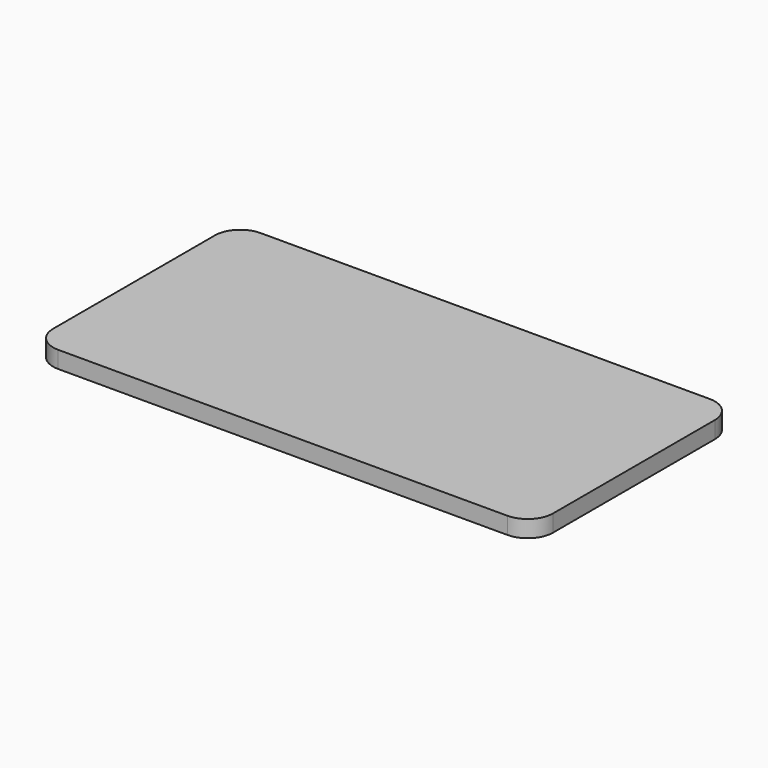
from build123d import *

# Parameters (mm, degrees)
F0_W     = 150.114
F0_H     = 75.946
F1_DEPTH = 5.08
F2_R     = 7.62
F3_DEPTH = 2.54
F4_DEPTH = 2.54
F5_DEPTH = 5.08


with BuildPart() as f1:
    # F0 (on Top) → F1 (new body)
    with BuildSketch(Plane.XY):
        with Locations((-42.984459, 14.728555)):
            Rectangle(F0_W, F0_H)
    extrude(amount=F1_DEPTH)

    # F2
    f2_edges = [f1.edges().sort_by_distance(p)[0] for p in [
        (-118.041459, -23.244445, 2.54),
        (32.072541, -23.244445, 2.54),
        (32.072541, 52.701555, 2.54),
        (-118.041459, 52.701555, 2.54),
    ]]
    fillet(f2_edges, radius=F2_R)

    # F1_face (on face) → F3 (join)
    with BuildSketch(Plane(origin=(-42.984459, 14.728555, 5.08), x_dir=(1, 0, 0), z_dir=(0, 0, 1))):
        with BuildLine():
            Line((-67.437, -37.973), (67.437, -37.973))
            ThreePointArc((67.437, -37.973), (72.825154, -35.741154), (75.057, -30.353))
            Line((75.057, -30.353), (75.057, 30.353))
            ThreePointArc((75.057, 30.353), (72.825154, 35.741154), (67.437, 37.973))
            Line((67.437, 37.973), (-67.437, 37.973))
            ThreePointArc((-67.437, 37.973), (-72.825154, 35.741154), (-75.057, 30.353))
            Line((-75.057, 30.353), (-75.057, -30.353))
            ThreePointArc((-75.057, -30.353), (-72.825154, -35.741154), (-67.437, -37.973))
        make_face()
    extrude(amount=-F3_DEPTH)

    # F1_face (on face) → F4 (join)
    with BuildSketch(Plane(origin=(-42.984459, 14.728555, 5.08), x_dir=(1, 0, 0), z_dir=(0, 0, 1))):
        with BuildLine():
            Line((-67.437, -37.973), (67.437, -37.973))
            ThreePointArc((67.437, -37.973), (72.825154, -35.741154), (75.057, -30.353))
            Line((75.057, -30.353), (75.057, 30.353))
            ThreePointArc((75.057, 30.353), (72.825154, 35.741154), (67.437, 37.973))
            Line((67.437, 37.973), (-67.437, 37.973))
            ThreePointArc((-67.437, 37.973), (-72.825154, 35.741154), (-75.057, 30.353))
            Line((-75.057, 30.353), (-75.057, -30.353))
            ThreePointArc((-75.057, -30.353), (-72.825154, -35.741154), (-67.437, -37.973))
        make_face()
    extrude(amount=-F4_DEPTH)

    # F1_face (on face) → F5 (join)
    with BuildSketch(Plane(origin=(-42.984459, 14.728555, 5.08), x_dir=(1, 0, 0), z_dir=(0, 0, 1))):
        with BuildLine():
            Line((67.437, -37.973), (-67.437, -37.973))
            ThreePointArc((-67.437, -37.973), (-72.825154, -35.741154), (-75.057, -30.353))
            Line((-75.057, -30.353), (-75.057, 30.353))
            ThreePointArc((-75.057, 30.353), (-72.825154, 35.741154), (-67.437, 37.973))
            Line((-67.437, 37.973), (67.437, 37.973))
            ThreePointArc((67.437, 37.973), (72.825154, 35.741154), (75.057, 30.353))
            Line((75.057, 30.353), (75.057, -30.353))
            ThreePointArc((75.057, -30.353), (72.825154, -35.741154), (67.437, -37.973))
        make_face()
    extrude(amount=-F5_DEPTH)


solid = f1.part
